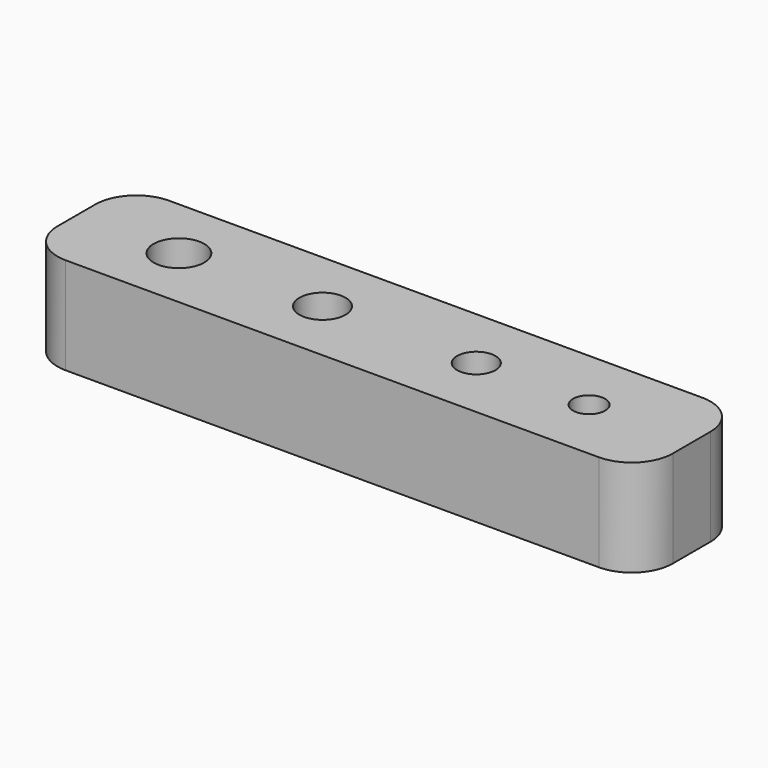
from build123d import *

# Parameters (mm, degrees)
F0_W     = 38.1
F0_H     = 8
F0_R     = 1.567656
F0_R_2   = 1.42875
F0_R_3   = 1.190625
F0_R_4   = 0.992188
F1_DEPTH = 6
F2_R     = 2.54


with BuildPart() as f1:
    # F0 (on Top) → F1 (new body)
    with BuildSketch(Plane.XY):
        Rectangle(F0_W, F0_H)
        with Locations((-12.7, 0)):
            Circle(F0_R, mode=Mode.SUBTRACT)
        with Locations((-3.81, 0)):
            Circle(F0_R_2, mode=Mode.SUBTRACT)
        with Locations((5.715, 0)):
            Circle(F0_R_3, mode=Mode.SUBTRACT)
        with Locations((12.7, 0)):
            Circle(F0_R_4, mode=Mode.SUBTRACT)
    extrude(amount=F1_DEPTH)

    # F2
    f2_edges = [f1.edges().sort_by_distance(p)[0] for p in [
        (-19.05, -4, 3),
        (19.05, -4, 3),
        (19.05, 4, 3),
        (-19.05, 4, 3),
    ]]
    fillet(f2_edges, radius=F2_R)


solid = f1.part
